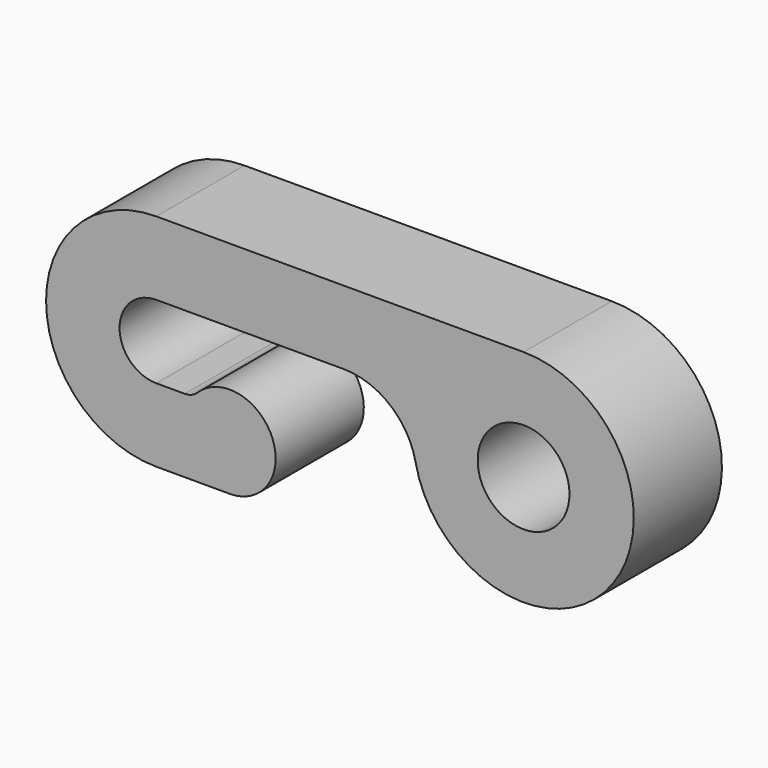
from build123d import *

# Parameters (mm, degrees)
F0_R     = 1.25
F1_DEPTH = 3


with BuildPart() as f1:
    # F0 (on Front) → F1 (new body)
    with BuildSketch(Plane.XZ):
        with BuildLine():
            ThreePointArc((-10, -1), (-11, 0), (-10, 1))
            Line((-10, 1), (-4.898979, 1))
            ThreePointArc((-4.898979, 1), (-3.634068, 0.549193), (-2.939388, -0.6))
            ThreePointArc((-2.939388, -0.6), (2.32379, -1.897367), (0, 3))
            Line((0, 3), (-10, 3))
            ThreePointArc((-10, 3), (-13, 0), (-10, -3))
            Line((-10, -3), (-10, -1))
        make_face()
        Circle(F0_R, mode=Mode.SUBTRACT)
        with BuildLine():
            Line((-9.224745, -1), (-10, -1))
            Line((-10, -1), (-10, -3))
            Line((-10, -3), (-8, -3))
            ThreePointArc((-8, -3), (-6.842725, -1.277544), (-8.874818, -0.857143))
            ThreePointArc((-8.874818, -0.857143), (-9.035763, -0.96291), (-9.224745, -1))
        make_face()
    extrude(amount=F1_DEPTH)


solid = f1.part
